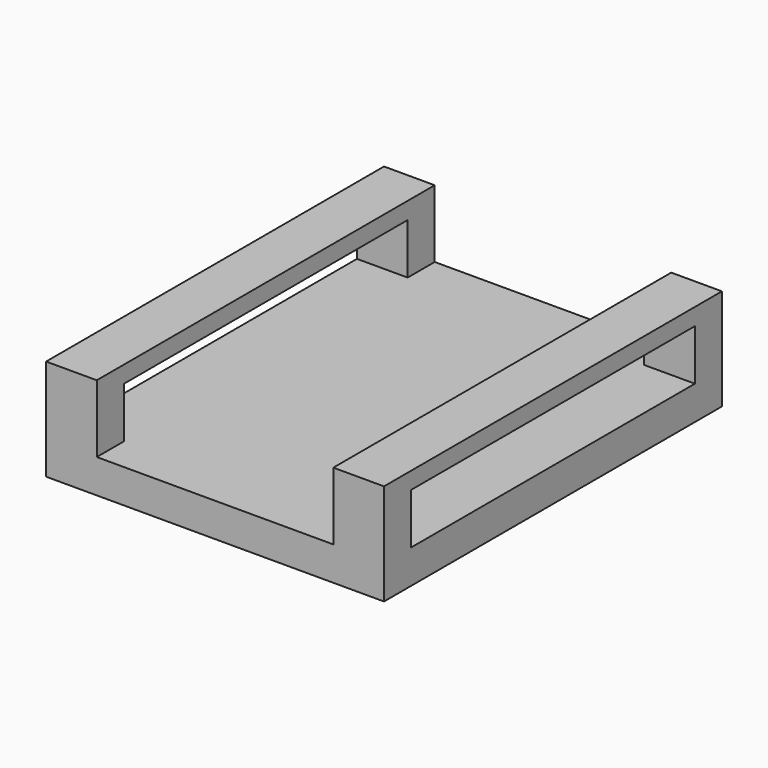
from build123d import *

# Parameters (mm, degrees)
F0_W     = 20
F0_H     = 25
F1_DEPTH = 2
F2_W     = 3
F2_H     = 25
F3_DEPTH = 4
F4_W     = 21
F4_H     = 3
F5_DEPTH = 25


with BuildPart() as f1:
    # F0 (on Top) → F1 (new body)
    with BuildSketch(Plane.XY):
        Rectangle(F0_W, F0_H)
    extrude(amount=F1_DEPTH)

    # F2 (on face) → F3 (join)
    with BuildSketch(Plane.XY.offset(2)):
        with Locations((-8.5, 0)):
            Rectangle(F2_W, F2_H)
        with Locations((8.5, 0)):
            Rectangle(F2_W, F2_H)
    extrude(amount=F3_DEPTH)

    # F4 (on face) → F5 (cut)
    with BuildSketch(Plane.YZ.offset(10)):
        with Locations((0, 3.5)):
            Rectangle(F4_W, F4_H)
    extrude(amount=-F5_DEPTH, mode=Mode.SUBTRACT)


solid = f1.part
